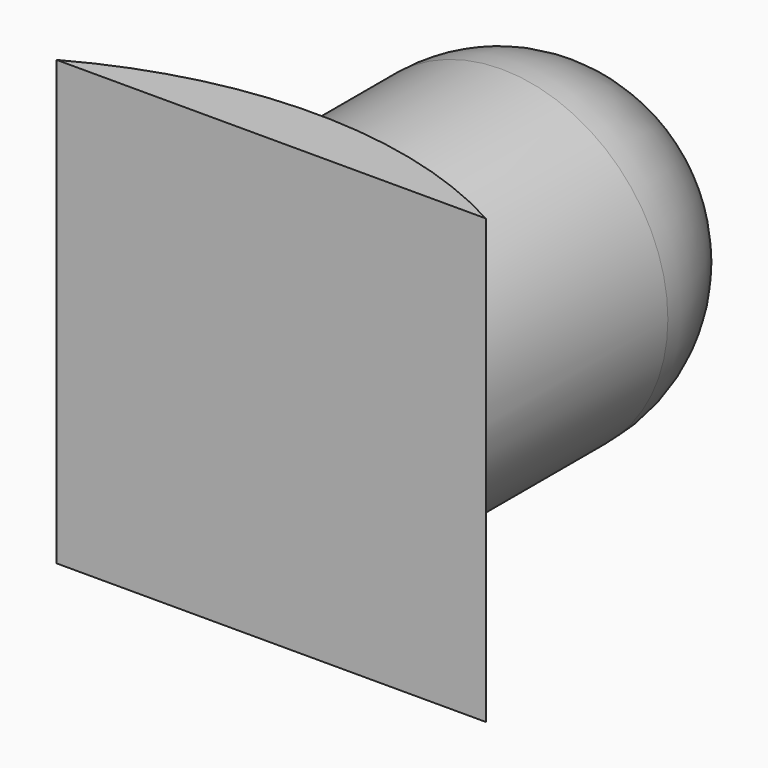
from build123d import *

# Parameters (mm, degrees)
F1_DEPTH = 20
F2_R     = 7.5
F3_DEPTH = 20
F4_R     = 7


with BuildPart() as f1:
    # F0 (on Top) → F1 (new body)
    with BuildSketch(Plane.XY):
        with BuildLine():
            ThreePointArc((9.682458, 17.5), (0, 20), (-9.682458, 17.5))
            Line((-9.682458, 17.5), (9.682458, 17.5))
        make_face()
    extrude(amount=F1_DEPTH)

    # F2 (on face) → F3 (join)
    with BuildSketch(Plane.XZ.offset(-17.5)):
        with Locations((0, 10)):
            Circle(F2_R)
    extrude(amount=-F3_DEPTH)

    # F4
    f4_edges = [f1.edges().sort_by_distance(p)[0] for p in [
        (-7.5, 37.5, 10),
    ]]
    fillet(f4_edges, radius=F4_R)


solid = f1.part
